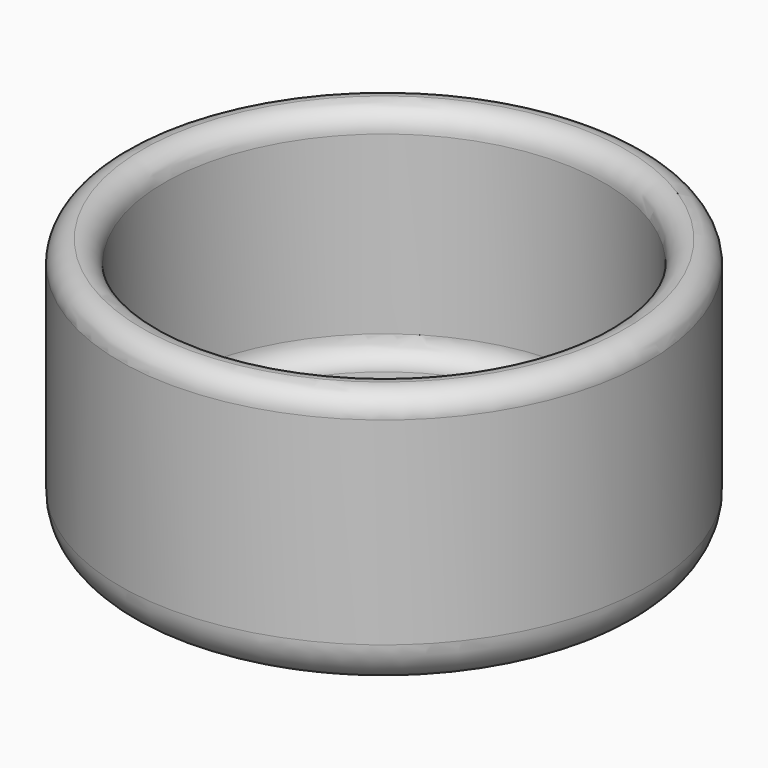
from build123d import *


with BuildPart() as f1:
    # F0 (on Right) → F1 (revolve)
    with BuildSketch(Plane.YZ):
        with BuildLine():
            Line((-31.75, 0), (0, 0))
            Line((0, 0), (0, 6.35))
            Line((0, 6.35), (-28.575, 6.35))
            ThreePointArc((-28.575, 6.35), (-30.820064, 7.279936), (-31.75, 9.525))
            Line((-31.75, 9.525), (-31.75, 34.925))
            ThreePointArc((-31.75, 34.925), (-32.679936, 37.170064), (-34.925, 38.1))
            ThreePointArc((-34.925, 38.1), (-37.170064, 37.170064), (-38.1, 34.925))
            Line((-38.1, 34.925), (-38.1, 6.35))
            ThreePointArc((-38.1, 6.35), (-36.240128, 1.859872), (-31.75, 0))
        make_face()
    revolve(axis=Axis((0, 0, 19.05), (0, 0, 1)))


solid = f1.part
